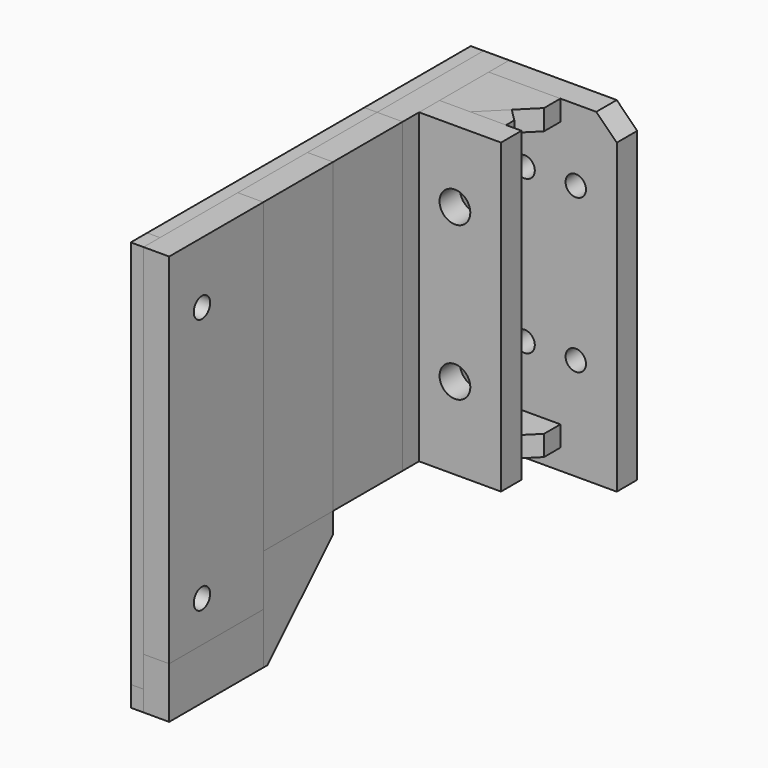
from build123d import *

# Parameters (mm, degrees)
RECTANGLE004_W                               = 17
RECTANGLE004_H                               = 60
EXTRUDE001_DEPTH                             = 5
RECTANGLE003_W                               = 17
RECTANGLE003_H                               = 60
EXTRUDE002_DEPTH                             = 5
RECTANGLE001_W                               = 23
RECTANGLE001_H                               = 10
EXTRUDE003_DEPTH                             = 5
RECTANGLE002_W                               = 17
RECTANGLE002_H                               = 20
EXTRUDE004_DEPTH                             = 5
CHAMFER_SIZE                                 = 16
RECTANGLE005_W                               = 57
RECTANGLE005_H                               = 4
EXTRUDE005_DEPTH                             = 2.5
RECTANGLE006_W                               = 4
RECTANGLE006_H                               = 80
EXTRUDE006_DEPTH                             = 2.5
RECTANGLE007_W                               = 24
RECTANGLE007_H                               = 4
EXTRUDE007_DEPTH                             = 2.5
RECTANGLE008_AS_DRAWN_W                      = 22.6
RECTANGLE008_AS_DRAWN_H                      = 4
EXTRUDE008_DEPTH                             = 2.5
EXTRUDE008_ONTO_RECTANGLE008_ROLL_ANGLE      = 89.999906
EXTRUDE008_ONTO_RECTANGLE008_PITCH_ANGLE     = -44.999767
EXTRUDE008_ONTO_RECTANGLE008_PLACEMENT_ANGLE = 89.999906
RECTANGLE009_W                               = 4
RECTANGLE009_H                               = 4
EXTRUDE009_DEPTH                             = 2.5
RECTANGLE010_W                               = 21
RECTANGLE010_H                               = 4
EXTRUDE010_DEPTH                             = 2.5
RECTANGLE012_W                               = 13
RECTANGLE012_H                               = 5
EXTRUDE012_DEPTH                             = 13
CHAMFER001_SIZE                              = 11
RECTANGLE013_W                               = 13
RECTANGLE013_H                               = 5
EXTRUDE013_DEPTH                             = 13
CHAMFER002_SIZE                              = 11
CIRCLE002_R                                  = 2
EXTRUDE017_DEPTH                             = 5
CIRCLE003_R                                  = 2
EXTRUDE016_DEPTH                             = 5
RECTANGLE_W                                  = 23
RECTANGLE_H                                  = 70
EXTRUDE_DEPTH                                = 5
RECTANGLE016_W                               = 5
RECTANGLE016_H                               = 60
EXTRUDE018_DEPTH                             = 26
RECTANGLE017_W                               = 2.5
RECTANGLE017_H                               = 4
EXTRUDE019_DEPTH                             = 26
RECTANGLE018_W                               = 2.5
RECTANGLE018_H                               = 4
EXTRUDE020_DEPTH                             = 13
RECTANGLE020_AS_DRAWN_W                      = 8
RECTANGLE020_AS_DRAWN_H                      = 3.3
EXTRUDE021_DEPTH                             = 2.5
EXTRUDE021_DEPTH_BACK                        = 5
EXTRUDE021_ONTO_RECTANGLE020_ROLL_ANGLE      = 89.81264
EXTRUDE021_ONTO_RECTANGLE020_PITCH_ANGLE     = 44.626764
EXTRUDE021_ONTO_RECTANGLE020_PLACEMENT_ANGLE = 89.81264
RECTANGLE019_W                               = 9.6
RECTANGLE019_H                               = 4
EXTRUDE022_DEPTH                             = 2.5
EXTRUDE022_DEPTH_BACK                        = 5
RECTANGLE022_W                               = 14
RECTANGLE022_H                               = 4
EXTRUDE024_DEPTH                             = 14
CHAMFER006_SIZE                              = 10
RECTANGLE023_W                               = 14
RECTANGLE023_H                               = 4
EXTRUDE025_DEPTH                             = 14
CHAMFER007_SIZE                              = 10
CIRCLE005_R                                  = 2
EXTRUDE029_DEPTH                             = 5
CIRCLE006_R                                  = 2
EXTRUDE028_DEPTH                             = 5
CIRCLE007_R                                  = 2
EXTRUDE027_DEPTH                             = 5
CIRCLE004_R                                  = 2
EXTRUDE026_DEPTH                             = 5
RECTANGLE021_W                               = 5
RECTANGLE021_H                               = 64
EXTRUDE023_DEPTH                             = 25
CHAMFER005_SIZE                              = 4
CIRCLE009_R                                  = 3
EXTRUDE031_DEPTH                             = 10
CIRCLE008_R                                  = 3
EXTRUDE030_DEPTH                             = 10
RECTANGLE011_W                               = 5.002663
RECTANGLE011_H                               = 60
EXTRUDE011_DEPTH                             = 16


with BuildPart() as extrude001:
    # Rectangle004 → Extrude001 (new body)
    with BuildSketch(Plane(origin=(0, -17, 10), x_dir=(0, 1, 0), z_dir=(1, 0, 0))):
        with Locations((8.5, 30)):
            Rectangle(RECTANGLE004_W, RECTANGLE004_H)
    extrude(amount=EXTRUDE001_DEPTH)


with BuildPart() as part_mirroring:
    # Part__Mirroring: instance of Extrude001
    add(extrude001.part.mirror(Plane(origin=(30, 0, 0), x_dir=(0, -1, 0), z_dir=(1, 0, 0))))


with BuildPart() as extrude002:
    # Rectangle003 → Extrude002 (new body)
    with BuildSketch(Plane(origin=(0, 0, 10), x_dir=(0, 1, 0), z_dir=(1, 0, 0))):
        with Locations((8.5, 30)):
            Rectangle(RECTANGLE003_W, RECTANGLE003_H)
    extrude(amount=EXTRUDE002_DEPTH)


with BuildPart() as part_mirroring001:
    # Part__Mirroring001: instance of Extrude002
    add(extrude002.part.mirror(Plane(origin=(30, 0, 0), x_dir=(0, -1, 0), z_dir=(1, 0, 0))))


with BuildPart() as extrude003:
    # Rectangle001 → Extrude003 (new body)
    with BuildSketch(Plane(origin=(0, -40, -10), x_dir=(0, 1, 0), z_dir=(1, 0, 0))):
        with Locations((11.5, 5)):
            Rectangle(RECTANGLE001_W, RECTANGLE001_H)
    extrude(amount=EXTRUDE003_DEPTH)


with BuildPart() as part_mirroring002:
    # Part__Mirroring002: instance of Extrude003
    add(extrude003.part.mirror(Plane(origin=(30, 0, 0), x_dir=(0, -1, 0), z_dir=(1, 0, 0))))


with BuildPart() as chamfer_body:
    # Rectangle002 → Extrude004 (new body)
    with BuildSketch(Plane(origin=(0, -17, -10), x_dir=(0, 1, 0), z_dir=(1, 0, 0))):
        with Locations((8.5, 10)):
            Rectangle(RECTANGLE002_W, RECTANGLE002_H)
    extrude(amount=EXTRUDE004_DEPTH)

    # Chamfer
    chamfer_edges = [chamfer_body.edges().sort_by_distance(p)[0] for p in [
        (2.5, 0, -10),
    ]]
    chamfer(chamfer_edges, length=CHAMFER_SIZE)


with BuildPart() as part_mirroring003:
    # Part__Mirroring003: instance of Chamfer body
    add(chamfer_body.part.mirror(Plane(origin=(30, 0, 0), x_dir=(0, -1, 0), z_dir=(1, 0, 0))))


with BuildPart() as extrude005:
    # Rectangle005 → Extrude005 (new body)
    with BuildSketch(Plane(origin=(5, -40, 66), x_dir=(0, 1, 0), z_dir=(1, 0, 0))):
        with Locations((28.5, 2)):
            Rectangle(RECTANGLE005_W, RECTANGLE005_H)
    extrude(amount=EXTRUDE005_DEPTH)


with BuildPart() as part_mirroring004:
    # Part__Mirroring004: instance of Extrude005
    add(extrude005.part.mirror(Plane(origin=(30, 0, 0), x_dir=(0, -1, 0), z_dir=(1, 0, 0))))


with BuildPart() as extrude006:
    # Rectangle006 → Extrude006 (new body)
    with BuildSketch(Plane(origin=(5, -40, -10), x_dir=(0, 1, 0), z_dir=(1, 0, 0))):
        with Locations((2, 40)):
            Rectangle(RECTANGLE006_W, RECTANGLE006_H)
    extrude(amount=EXTRUDE006_DEPTH)


with BuildPart() as part_mirroring005:
    # Part__Mirroring005: instance of Extrude006
    add(extrude006.part.mirror(Plane(origin=(30, 0, 0), x_dir=(0, -1, 0), z_dir=(1, 0, 0))))


with BuildPart() as extrude007:
    # Rectangle007 → Extrude007 (new body)
    with BuildSketch(Plane(origin=(5, -40, -10), x_dir=(0, 1, 0), z_dir=(1, 0, 0))):
        with Locations((12, 2)):
            Rectangle(RECTANGLE007_W, RECTANGLE007_H)
    extrude(amount=EXTRUDE007_DEPTH)


with BuildPart() as part_mirroring006:
    # Part__Mirroring006: instance of Extrude007
    add(extrude007.part.mirror(Plane(origin=(30, 0, 0), x_dir=(0, -1, 0), z_dir=(1, 0, 0))))


with BuildPart() as extrude008:
    # Rectangle008 as drawn → Extrude008 (new)
    with BuildSketch(Plane.XY):
        with Locations((11.3, 2)):
            Rectangle(RECTANGLE008_AS_DRAWN_W, RECTANGLE008_AS_DRAWN_H)
    extrude(amount=EXTRUDE008_DEPTH)


with BuildPart() as extrude008_1:
    # Extrude008 onto Rectangle008 roll: moved
    add(extrude008.part.rotate(Axis((0, 0, 0), (1, 0, 0)), EXTRUDE008_ONTO_RECTANGLE008_ROLL_ANGLE))


with BuildPart() as extrude008_2:
    # Extrude008 onto Rectangle008 pitch: moved
    add(extrude008_1.part.rotate(Axis((0, 0, 0), (0, 1, 0)), EXTRUDE008_ONTO_RECTANGLE008_PITCH_ANGLE))


with BuildPart() as extrude008_3:
    # Extrude008 onto Rectangle008 placement: moved
    add(extrude008_2.part.moved(Location((5, -16, -10))).rotate(Axis((5, -16, -10), (0, 0, 1)), EXTRUDE008_ONTO_RECTANGLE008_PLACEMENT_ANGLE))


with BuildPart() as part_mirroring007:
    # Part__Mirroring007: instance of Extrude008
    add(extrude008_3.part.mirror(Plane(origin=(30, 0, 0), x_dir=(0, -1, 0), z_dir=(1, 0, 0))))


with BuildPart() as extrude009:
    # Rectangle009 → Extrude009 (new body)
    with BuildSketch(Plane(origin=(5, -4, 6), x_dir=(0, 1, 0), z_dir=(1, 0, 0))):
        with Locations((2, 2)):
            Rectangle(RECTANGLE009_W, RECTANGLE009_H)
    extrude(amount=EXTRUDE009_DEPTH)


with BuildPart() as part_mirroring008:
    # Part__Mirroring008: instance of Extrude009
    add(extrude009.part.mirror(Plane(origin=(30, 0, 0), x_dir=(0, -1, 0), z_dir=(1, 0, 0))))


with BuildPart() as extrude010:
    # Rectangle010 → Extrude010 (new body)
    with BuildSketch(Plane(origin=(5, -4, 10), x_dir=(0, 1, 0), z_dir=(1, 0, 0))):
        with Locations((10.5, 2)):
            Rectangle(RECTANGLE010_W, RECTANGLE010_H)
    extrude(amount=EXTRUDE010_DEPTH)


with BuildPart() as part_mirroring009:
    # Part__Mirroring009: instance of Extrude010
    add(extrude010.part.mirror(Plane(origin=(30, 0, 0), x_dir=(0, -1, 0), z_dir=(1, 0, 0))))


with BuildPart() as chamfer001:
    # Rectangle012 → Extrude012 (new body)
    with BuildSketch(Plane(origin=(0, 0, 63), x_dir=(0, -1, 0), z_dir=(-1, 0, 0))):
        with Locations((6.5, 2.5)):
            Rectangle(RECTANGLE012_W, RECTANGLE012_H)
    extrude(amount=EXTRUDE012_DEPTH)

    # Chamfer001
    chamfer001_edges = [chamfer001.edges().sort_by_distance(p)[0] for p in [
        (-13, 0, 65.5),
    ]]
    chamfer(chamfer001_edges, length=CHAMFER001_SIZE)


with BuildPart() as chamfer001_1:
    # Chamfer001 placement: moved
    add(chamfer001.part.moved(Location((0, 39, 2))))


with BuildPart() as part_mirroring011:
    # Part__Mirroring011: instance of Chamfer001
    add(chamfer001_1.part.mirror(Plane(origin=(30, 0, 0), x_dir=(0, -1, 0), z_dir=(1, 0, 0))))


with BuildPart() as chamfer002:
    # Rectangle013 → Extrude013 (new body)
    with BuildSketch(Plane(origin=(0, 0, 63), x_dir=(0, -1, 0), z_dir=(-1, 0, 0))):
        with Locations((6.5, 2.5)):
            Rectangle(RECTANGLE013_W, RECTANGLE013_H)
    extrude(amount=EXTRUDE013_DEPTH)

    # Chamfer002
    chamfer002_edges = [chamfer002.edges().sort_by_distance(p)[0] for p in [
        (-13, 0, 65.5),
    ]]
    chamfer(chamfer002_edges, length=CHAMFER002_SIZE)


with BuildPart() as chamfer002_1:
    # Chamfer002 placement: moved
    add(chamfer002.part.moved(Location((0, 39, -53))))


with BuildPart() as part_mirroring012:
    # Part__Mirroring012: instance of Chamfer002
    add(chamfer002_1.part.mirror(Plane(origin=(30, 0, 0), x_dir=(0, -1, 0), z_dir=(1, 0, 0))))


with BuildPart() as extrude017:
    # Circle002 → Extrude017 (new body)
    with BuildSketch(Plane(origin=(0, -32, 58), x_dir=(0, 1, 0), z_dir=(1, 0, 0))):
        Circle(CIRCLE002_R)
    extrude(amount=EXTRUDE017_DEPTH)


with BuildPart() as extrude016:
    # Circle003 → Extrude016 (new body)
    with BuildSketch(Plane(origin=(0, -32, 8), x_dir=(0, 1, 0), z_dir=(1, 0, 0))):
        Circle(CIRCLE003_R)
    extrude(amount=EXTRUDE016_DEPTH)


with BuildPart() as cut001:
    # Rectangle → Extrude (new body)
    with BuildSketch(Plane(origin=(0, -40, 0), x_dir=(0, 1, 0), z_dir=(1, 0, 0))):
        with Locations((11.5, 35)):
            Rectangle(RECTANGLE_W, RECTANGLE_H)
    extrude(amount=EXTRUDE_DEPTH)

    # Cut: cut Extrude016
    add(extrude016.part, mode=Mode.SUBTRACT)

    # Cut001: cut Extrude017
    add(extrude017.part, mode=Mode.SUBTRACT)


with BuildPart() as part_mirroring015:
    # Part__Mirroring015: instance of Cut001
    add(cut001.part.mirror(Plane(origin=(30, 0, 0), x_dir=(0, -1, 0), z_dir=(1, 0, 0))))


with BuildPart() as extrude018:
    # Rectangle016 → Extrude018 (new body)
    with BuildSketch(Plane(origin=(5, 17, 10), x_dir=(-1, 0, 0), z_dir=(0, 1, 0))):
        with Locations((2.5, 30)):
            Rectangle(RECTANGLE016_W, RECTANGLE016_H)
    extrude(amount=EXTRUDE018_DEPTH)


with BuildPart() as part_mirroring016:
    # Part__Mirroring016: instance of Extrude018
    add(extrude018.part.mirror(Plane(origin=(30, 0, 0), x_dir=(0, -1, 0), z_dir=(1, 0, 0))))


with BuildPart() as extrude019:
    # Rectangle017 → Extrude019 (new body)
    with BuildSketch(Plane(origin=(7.5, 17, 66), x_dir=(-1, 0, 0), z_dir=(0, 1, 0))):
        with Locations((1.25, 2)):
            Rectangle(RECTANGLE017_W, RECTANGLE017_H)
    extrude(amount=EXTRUDE019_DEPTH)


with BuildPart() as part_mirroring017:
    # Part__Mirroring017: instance of Extrude019
    add(extrude019.part.mirror(Plane(origin=(30, 0, 0), x_dir=(0, -1, 0), z_dir=(1, 0, 0))))


with BuildPart() as extrude020:
    # Rectangle018 → Extrude020 (new body)
    with BuildSketch(Plane(origin=(7.5, 17, 10), x_dir=(-1, 0, 0), z_dir=(0, 1, 0))):
        with Locations((1.25, 2)):
            Rectangle(RECTANGLE018_W, RECTANGLE018_H)
    extrude(amount=EXTRUDE020_DEPTH)


with BuildPart() as part_mirroring018:
    # Part__Mirroring018: instance of Extrude020
    add(extrude020.part.mirror(Plane(origin=(30, 0, 0), x_dir=(0, -1, 0), z_dir=(1, 0, 0))))


with BuildPart() as extrude021:
    # Rectangle020 as drawn → Extrude021 (new, two sides)
    with BuildSketch(Plane.XY) as extrude021_sk:
        with Locations((4, 1.65)):
            Rectangle(RECTANGLE020_AS_DRAWN_W, RECTANGLE020_AS_DRAWN_H)
    extrude(amount=EXTRUDE021_DEPTH)
    extrude(extrude021_sk.sketch, amount=-EXTRUDE021_DEPTH_BACK)


with BuildPart() as extrude021_1:
    # Extrude021 onto Rectangle020 roll: moved
    add(extrude021.part.rotate(Axis((0, 0, 0), (1, 0, 0)), EXTRUDE021_ONTO_RECTANGLE020_ROLL_ANGLE))


with BuildPart() as extrude021_2:
    # Extrude021 onto Rectangle020 pitch: moved
    add(extrude021_1.part.rotate(Axis((0, 0, 0), (0, 1, 0)), EXTRUDE021_ONTO_RECTANGLE020_PITCH_ANGLE))


with BuildPart() as extrude021_3:
    # Extrude021 onto Rectangle020 placement: moved
    add(extrude021_2.part.moved(Location((5, 27.7, 11.65))).rotate(Axis((5, 27.7, 11.65), (0, 0, 1)), EXTRUDE021_ONTO_RECTANGLE020_PLACEMENT_ANGLE))


with BuildPart() as part_mirroring019:
    # Part__Mirroring019: instance of Extrude021
    add(extrude021_3.part.mirror(Plane(origin=(30, 0, 0), x_dir=(0, -1, 0), z_dir=(1, 0, 0))))


with BuildPart() as extrude022:
    # Rectangle019 → Extrude022 (new body, two sides)
    with BuildSketch(Plane(origin=(5, 33.4, 6), x_dir=(0, 1, 0), z_dir=(1, 0, 0))) as extrude022_sk:
        with Locations((4.8, 2)):
            Rectangle(RECTANGLE019_W, RECTANGLE019_H)
    extrude(amount=EXTRUDE022_DEPTH)
    extrude(extrude022_sk.sketch, amount=-EXTRUDE022_DEPTH_BACK)


with BuildPart() as part_mirroring020:
    # Part__Mirroring020: instance of Extrude022
    add(extrude022.part.mirror(Plane(origin=(30, 0, 0), x_dir=(0, -1, 0), z_dir=(1, 0, 0))))


with BuildPart() as chamfer006:
    # Rectangle022 → Extrude024 (new body)
    with BuildSketch(Plane(origin=(0, 38, 66), x_dir=(0, -1, 0), z_dir=(-1, 0, 0))):
        with Locations((7, 2)):
            Rectangle(RECTANGLE022_W, RECTANGLE022_H)
    extrude(amount=EXTRUDE024_DEPTH)

    # Chamfer006
    chamfer006_edges = [chamfer006.edges().sort_by_distance(p)[0] for p in [
        (-14, 24, 68),
    ]]
    chamfer(chamfer006_edges, length=CHAMFER006_SIZE)


with BuildPart() as part_mirroring021:
    # Part__Mirroring021: instance of Chamfer006
    add(chamfer006.part.mirror(Plane(origin=(30, 0, 0), x_dir=(0, -1, 0), z_dir=(1, 0, 0))))


with BuildPart() as chamfer007:
    # Rectangle023 → Extrude025 (new body)
    with BuildSketch(Plane(origin=(0, 38, 66), x_dir=(0, -1, 0), z_dir=(-1, 0, 0))):
        with Locations((7, 2)):
            Rectangle(RECTANGLE023_W, RECTANGLE023_H)
    extrude(amount=EXTRUDE025_DEPTH)

    # Chamfer007
    chamfer007_edges = [chamfer007.edges().sort_by_distance(p)[0] for p in [
        (-14, 24, 68),
    ]]
    chamfer(chamfer007_edges, length=CHAMFER007_SIZE)


with BuildPart() as chamfer007_1:
    # Chamfer007 placement: moved
    add(chamfer007.part.moved(Location((0, 0, -56))))


with BuildPart() as part_mirroring022:
    # Part__Mirroring022: instance of Chamfer007
    add(chamfer007_1.part.mirror(Plane(origin=(30, 0, 0), x_dir=(0, -1, 0), z_dir=(1, 0, 0))))


with BuildPart() as extrude029:
    # Circle005 → Extrude029 (new body)
    with BuildSketch(Plane(origin=(-17, 43, 56), x_dir=(1, 0, 0), z_dir=(0, -1, 0))):
        Circle(CIRCLE005_R)
    extrude(amount=EXTRUDE029_DEPTH)


with BuildPart() as extrude028:
    # Circle006 → Extrude028 (new body)
    with BuildSketch(Plane(origin=(-7, 43, 56), x_dir=(1, 0, 0), z_dir=(0, -1, 0))):
        Circle(CIRCLE006_R)
    extrude(amount=EXTRUDE028_DEPTH)


with BuildPart() as extrude027:
    # Circle007 → Extrude027 (new body)
    with BuildSketch(Plane(origin=(-7, 43, 26), x_dir=(1, 0, 0), z_dir=(0, -1, 0))):
        Circle(CIRCLE007_R)
    extrude(amount=EXTRUDE027_DEPTH)


with BuildPart() as extrude026:
    # Circle004 → Extrude026 (new body)
    with BuildSketch(Plane(origin=(-17, 43, 26), x_dir=(1, 0, 0), z_dir=(0, -1, 0))):
        Circle(CIRCLE004_R)
    extrude(amount=EXTRUDE026_DEPTH)


with BuildPart() as cut005:
    # Rectangle021 → Extrude023 (new body)
    with BuildSketch(Plane(origin=(0, 38, 6), x_dir=(0, 1, 0), z_dir=(1, 0, 0))):
        with Locations((2.5, 32)):
            Rectangle(RECTANGLE021_W, RECTANGLE021_H)
    extrude(amount=-EXTRUDE023_DEPTH)

    # Chamfer005
    chamfer005_edges = [cut005.edges().sort_by_distance(p)[0] for p in [
        (-25, 40.5, 70),
    ]]
    chamfer(chamfer005_edges, length=CHAMFER005_SIZE)

    # Cut002: cut Extrude026
    add(extrude026.part, mode=Mode.SUBTRACT)

    # Cut003: cut Extrude027
    add(extrude027.part, mode=Mode.SUBTRACT)

    # Cut004: cut Extrude028
    add(extrude028.part, mode=Mode.SUBTRACT)

    # Cut005: cut Extrude029
    add(extrude029.part, mode=Mode.SUBTRACT)


with BuildPart() as part_mirroring023:
    # Part__Mirroring023: instance of Cut005
    add(cut005.part.mirror(Plane(origin=(30, 0, 0), x_dir=(0, -1, 0), z_dir=(1, 0, 0))))


with BuildPart() as extrude031:
    # Circle009 → Extrude031 (new body)
    with BuildSketch(Plane(origin=(-7, 24, 26), x_dir=(1, 0, 0), z_dir=(0, -1, 0))):
        Circle(CIRCLE009_R)
    extrude(amount=EXTRUDE031_DEPTH)


with BuildPart() as extrude030:
    # Circle008 → Extrude030 (new body)
    with BuildSketch(Plane(origin=(-7, 24, 56), x_dir=(1, 0, 0), z_dir=(0, -1, 0))):
        Circle(CIRCLE008_R)
    extrude(amount=EXTRUDE030_DEPTH)


with BuildPart() as cut007:
    # Rectangle011 → Extrude011 (new body)
    with BuildSketch(Plane(origin=(0, -13, 10), x_dir=(0, -1, 0), z_dir=(-1, 0, 0))):
        with Locations((2.501332, 30)):
            Rectangle(RECTANGLE011_W, RECTANGLE011_H)
    extrude(amount=EXTRUDE011_DEPTH)


with BuildPart() as cut007_1:
    # Extrude011 placement: moved
    add(cut007.part.moved(Location((0, 37, 0))))

    # Cut006: cut Extrude030
    add(extrude030.part, mode=Mode.SUBTRACT)

    # Cut007: cut Extrude031
    add(extrude031.part, mode=Mode.SUBTRACT)


with BuildPart() as cut007_2:
    # Cut007 placement: moved
    add(cut007_1.part.moved(Location((0, 2, 0))))


with BuildPart() as part_mirroring024:
    # Part__Mirroring024: instance of Cut007
    add(cut007_2.part.mirror(Plane(origin=(30, 0, 0), x_dir=(0, -1, 0), z_dir=(1, 0, 0))))


solid = Compound([part_mirroring.part, part_mirroring001.part, part_mirroring002.part, part_mirroring003.part, part_mirroring004.part, part_mirroring005.part, part_mirroring006.part, part_mirroring007.part, part_mirroring008.part, part_mirroring009.part, part_mirroring011.part, part_mirroring012.part, part_mirroring015.part, part_mirroring016.part, part_mirroring017.part, part_mirroring018.part, part_mirroring019.part, part_mirroring020.part, part_mirroring021.part, part_mirroring022.part, part_mirroring023.part, part_mirroring024.part])
